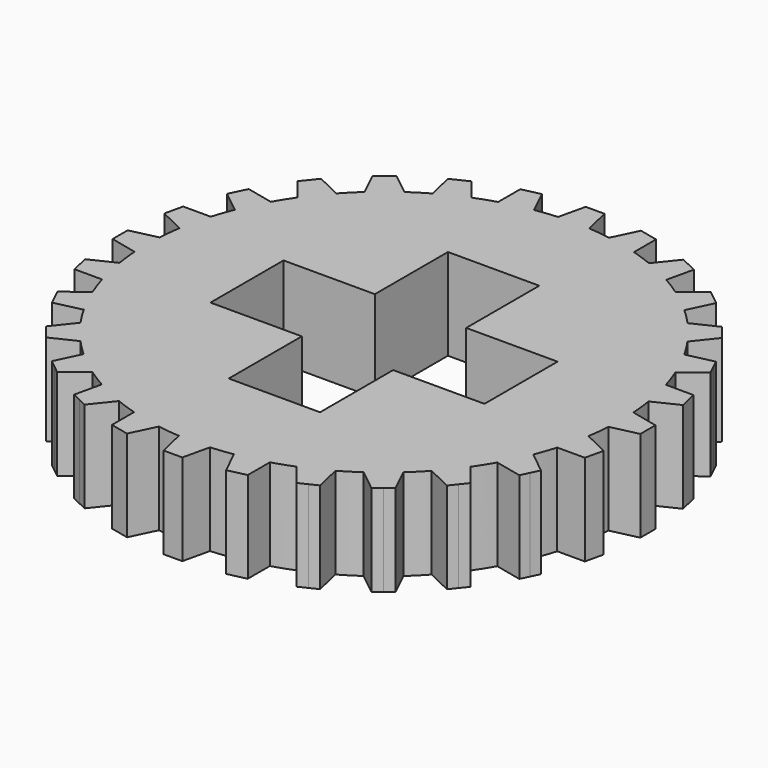
from build123d import *

# Parameters (mm, degrees)
F1_DEPTH = 20


with BuildPart() as f1:
    # F0 (on Top) → F1 (new body)
    with BuildSketch(Plane.XY):
        with BuildLine():
            ThreePointArc((51.887942, -3.411964), (51.971978, -1.706902), (52, 0))
            ThreePointArc((52, 0), (51.971978, 1.706902), (51.887942, 3.411964))
            ThreePointArc((51.887942, 3.411964), (51.673035, 5.822153), (51.346236, 8.219734))
            ThreePointArc((51.346236, 8.219734), (50.696251, 11.571089), (49.827769, 14.872573))
            ThreePointArc((49.827769, 14.872573), (49.081933, 17.174511), (48.229816, 19.43926))
            ThreePointArc((48.229816, 19.43926), (46.850381, 22.561954), (45.269024, 25.587408))
            ThreePointArc((45.269024, 25.587408), (44.029658, 27.665668), (42.694951, 29.684021))
            ThreePointArc((42.694951, 29.684021), (40.655237, 32.42147), (38.440301, 35.019184))
            ThreePointArc((38.440301, 35.019184), (36.769553, 36.769553), (35.019184, 38.440301))
            ThreePointArc((35.019184, 38.440301), (32.42147, 40.655237), (29.684021, 42.694951))
            ThreePointArc((29.684021, 42.694951), (27.665668, 44.029658), (25.587408, 45.269024))
            ThreePointArc((25.587408, 45.269024), (22.561954, 46.850381), (19.43926, 48.229816))
            ThreePointArc((19.43926, 48.229816), (17.174511, 49.081933), (14.872573, 49.827769))
            ThreePointArc((14.872573, 49.827769), (11.571089, 50.696251), (8.219734, 51.346236))
            ThreePointArc((8.219734, 51.346236), (5.822153, 51.673035), (3.411964, 51.887942))
            ThreePointArc((3.411964, 51.887942), (0, 52), (-3.411964, 51.887942))
            ThreePointArc((-3.411964, 51.887942), (-5.822153, 51.673035), (-8.219734, 51.346236))
            ThreePointArc((-8.219734, 51.346236), (-11.571089, 50.696251), (-14.872573, 49.827769))
            ThreePointArc((-14.872573, 49.827769), (-17.174511, 49.081933), (-19.43926, 48.229816))
            ThreePointArc((-19.43926, 48.229816), (-22.561954, 46.850381), (-25.587408, 45.269024))
            ThreePointArc((-25.587408, 45.269024), (-27.665668, 44.029658), (-29.684021, 42.694951))
            ThreePointArc((-29.684021, 42.694951), (-32.42147, 40.655237), (-35.019184, 38.440301))
            ThreePointArc((-35.019184, 38.440301), (-36.769553, 36.769553), (-38.440301, 35.019184))
            ThreePointArc((-38.440301, 35.019184), (-40.655237, 32.42147), (-42.694951, 29.684021))
            ThreePointArc((-42.694951, 29.684021), (-44.029658, 27.665668), (-45.269024, 25.587408))
            ThreePointArc((-45.269024, 25.587408), (-46.850381, 22.561954), (-48.229816, 19.43926))
            ThreePointArc((-48.229816, 19.43926), (-49.081933, 17.174511), (-49.827769, 14.872573))
            ThreePointArc((-49.827769, 14.872573), (-50.696251, 11.571089), (-51.346236, 8.219734))
            ThreePointArc((-51.346236, 8.219734), (-51.673035, 5.822153), (-51.887942, 3.411964))
            ThreePointArc((-51.887942, 3.411964), (-52, 0), (-51.887942, -3.411964))
            ThreePointArc((-51.887942, -3.411964), (-51.673035, -5.822153), (-51.346236, -8.219734))
            ThreePointArc((-51.346236, -8.219734), (-50.696251, -11.571089), (-49.827769, -14.872573))
            ThreePointArc((-49.827769, -14.872573), (-49.081933, -17.174511), (-48.229816, -19.43926))
            ThreePointArc((-48.229816, -19.43926), (-46.850381, -22.561954), (-45.269024, -25.587408))
            ThreePointArc((-45.269024, -25.587408), (-44.029658, -27.665668), (-42.694951, -29.684021))
            ThreePointArc((-42.694951, -29.684021), (-40.655237, -32.42147), (-38.440301, -35.019184))
            ThreePointArc((-38.440301, -35.019184), (-36.769553, -36.769553), (-35.019184, -38.440301))
            ThreePointArc((-35.019184, -38.440301), (-32.42147, -40.655237), (-29.684021, -42.694951))
            ThreePointArc((-29.684021, -42.694951), (-27.665668, -44.029658), (-25.587408, -45.269024))
            ThreePointArc((-25.587408, -45.269024), (-22.561954, -46.850381), (-19.43926, -48.229816))
            ThreePointArc((-19.43926, -48.229816), (-17.174511, -49.081933), (-14.872573, -49.827769))
            ThreePointArc((-14.872573, -49.827769), (-11.571089, -50.696251), (-8.219734, -51.346236))
            ThreePointArc((-8.219734, -51.346236), (-5.822153, -51.673035), (-3.411964, -51.887942))
            ThreePointArc((-3.411964, -51.887942), (0, -52), (3.411964, -51.887942))
            ThreePointArc((3.411964, -51.887942), (5.822153, -51.673035), (8.219734, -51.346236))
            ThreePointArc((8.219734, -51.346236), (11.571089, -50.696251), (14.872573, -49.827769))
            ThreePointArc((14.872573, -49.827769), (17.174511, -49.081933), (19.43926, -48.229816))
            ThreePointArc((19.43926, -48.229816), (22.561954, -46.850381), (25.587408, -45.269024))
            ThreePointArc((25.587408, -45.269024), (27.665668, -44.029658), (29.684021, -42.694951))
            ThreePointArc((29.684021, -42.694951), (32.42147, -40.655237), (35.019184, -38.440301))
            ThreePointArc((35.019184, -38.440301), (36.769553, -36.769553), (38.440301, -35.019184))
            ThreePointArc((38.440301, -35.019184), (40.655237, -32.42147), (42.694951, -29.684021))
            ThreePointArc((42.694951, -29.684021), (44.029658, -27.665668), (45.269024, -25.587408))
            ThreePointArc((45.269024, -25.587408), (46.850381, -22.561954), (48.229816, -19.43926))
            ThreePointArc((48.229816, -19.43926), (49.081933, -17.174511), (49.827769, -14.872573))
            ThreePointArc((49.827769, -14.872573), (50.696251, -11.571089), (51.346236, -8.219734))
            ThreePointArc((51.346236, -8.219734), (51.673035, -5.822153), (51.887942, -3.411964))
        make_face()
        Polygon((-10, 30), (0, 30), (10, 30), (10, 10), (30, 10), (30, 0), (30, -10), (10, -10), (10, -30), (0, -30), (-10, -30), (-10, -10), (-30, -10), (-30, 0), (-30, 10), (-10, 10), align=None, mode=Mode.SUBTRACT)
        with BuildLine():
            ThreePointArc((51.887942, 3.411964), (51.971978, 1.706902), (52, 0))
            ThreePointArc((52, 0), (51.971978, -1.706902), (51.887942, -3.411964))
            Line((51.887942, -3.411964), (57.775974, -2.059396))
            Line((57.775974, -2.059396), (57.775974, 0))
            Line((57.775974, 0), (57.775974, 2.059396))
            Line((57.775974, 2.059396), (51.887942, 3.411964))
        make_face()
        with BuildLine():
            ThreePointArc((49.827769, 14.872573), (50.696251, 11.571089), (51.346236, 8.219734))
            Line((51.346236, 8.219734), (56.785669, 10.848601))
            Line((56.785669, 10.848601), (56.32741, 12.856364))
            Line((56.32741, 12.856364), (55.869151, 14.864127))
            Line((55.869151, 14.864127), (49.827769, 14.872573))
        make_face()
        with BuildLine():
            Line((56.785669, -10.848601), (51.346236, -8.219734))
            ThreePointArc((51.346236, -8.219734), (50.696251, -11.571089), (49.827769, -14.872573))
            Line((49.827769, -14.872573), (55.869151, -14.864127))
            Line((55.869151, -14.864127), (56.32741, -12.856364))
            Line((56.32741, -12.856364), (56.785669, -10.848601))
        make_face()
        with BuildLine():
            ThreePointArc((45.269024, 25.587408), (46.850381, 22.561954), (48.229816, 19.43926))
            Line((48.229816, 19.43926), (52.947893, 23.212604))
            Line((52.947893, 23.212604), (52.054354, 25.068056))
            Line((52.054354, 25.068056), (51.160816, 26.923508))
            Line((51.160816, 26.923508), (45.269024, 25.587408))
        make_face()
        with BuildLine():
            Line((52.947893, -23.212604), (48.229816, -19.43926))
            ThreePointArc((48.229816, -19.43926), (46.850381, -22.561954), (45.269024, -25.587408))
            Line((45.269024, -25.587408), (51.160816, -26.923508))
            Line((51.160816, -26.923508), (52.054354, -25.068056))
            Line((52.054354, -25.068056), (52.947893, -23.212604))
        make_face()
        with BuildLine():
            ThreePointArc((38.440301, 35.019184), (40.655237, 32.42147), (42.694951, 29.684021))
            Line((42.694951, 29.684021), (46.455088, 34.41263))
            Line((46.455088, 34.41263), (45.171076, 36.022731))
            Line((45.171076, 36.022731), (43.887063, 37.632832))
            Line((43.887063, 37.632832), (38.440301, 35.019184))
        make_face()
        with BuildLine():
            Line((46.455088, -34.41263), (42.694951, -29.684021))
            ThreePointArc((42.694951, -29.684021), (40.655237, -32.42147), (38.440301, -35.019184))
            Line((38.440301, -35.019184), (43.887063, -37.632832))
            Line((43.887063, -37.632832), (45.171076, -36.022731))
            Line((45.171076, -36.022731), (46.455088, -34.41263))
        make_face()
        with BuildLine():
            ThreePointArc((29.684021, 42.694951), (32.42147, 40.655237), (35.019184, 38.440301))
            Line((35.019184, 38.440301), (37.632832, 43.887063))
            Line((37.632832, 43.887063), (36.022731, 45.171076))
            Line((36.022731, 45.171076), (34.41263, 46.455088))
            Line((34.41263, 46.455088), (29.684021, 42.694951))
        make_face()
        with BuildLine():
            Line((37.632832, -43.887063), (35.019184, -38.440301))
            ThreePointArc((35.019184, -38.440301), (32.42147, -40.655237), (29.684021, -42.694951))
            Line((29.684021, -42.694951), (34.41263, -46.455088))
            Line((34.41263, -46.455088), (36.022731, -45.171076))
            Line((36.022731, -45.171076), (37.632832, -43.887063))
        make_face()
        with BuildLine():
            ThreePointArc((19.43926, 48.229816), (22.561954, 46.850381), (25.587408, 45.269024))
            Line((25.587408, 45.269024), (26.923508, 51.160816))
            Line((26.923508, 51.160816), (25.068056, 52.054354))
            Line((25.068056, 52.054354), (23.212604, 52.947893))
            Line((23.212604, 52.947893), (19.43926, 48.229816))
        make_face()
        with BuildLine():
            Line((26.923508, -51.160816), (25.587408, -45.269024))
            ThreePointArc((25.587408, -45.269024), (22.561954, -46.850381), (19.43926, -48.229816))
            Line((19.43926, -48.229816), (23.212604, -52.947893))
            Line((23.212604, -52.947893), (25.068056, -52.054354))
            Line((25.068056, -52.054354), (26.923508, -51.160816))
        make_face()
        with BuildLine():
            ThreePointArc((8.219734, 51.346236), (11.571089, 50.696251), (14.872573, 49.827769))
            Line((14.872573, 49.827769), (14.864127, 55.869151))
            Line((14.864127, 55.869151), (12.856364, 56.32741))
            Line((12.856364, 56.32741), (10.848601, 56.785669))
            Line((10.848601, 56.785669), (8.219734, 51.346236))
        make_face()
        with BuildLine():
            Line((14.864127, -55.869151), (14.872573, -49.827769))
            ThreePointArc((14.872573, -49.827769), (11.571089, -50.696251), (8.219734, -51.346236))
            Line((8.219734, -51.346236), (10.848601, -56.785669))
            Line((10.848601, -56.785669), (12.856364, -56.32741))
            Line((12.856364, -56.32741), (14.864127, -55.869151))
        make_face()
        with BuildLine():
            ThreePointArc((-3.411964, 51.887942), (0, 52), (3.411964, 51.887942))
            Line((3.411964, 51.887942), (2.059396, 57.775974))
            Line((2.059396, 57.775974), (0, 57.775974))
            Line((0, 57.775974), (-2.059396, 57.775974))
            Line((-2.059396, 57.775974), (-3.411964, 51.887942))
        make_face()
        with BuildLine():
            Line((2.059396, -57.775974), (3.411964, -51.887942))
            ThreePointArc((3.411964, -51.887942), (0, -52), (-3.411964, -51.887942))
            Line((-3.411964, -51.887942), (-2.059396, -57.775974))
            Line((-2.059396, -57.775974), (0, -57.775974))
            Line((0, -57.775974), (2.059396, -57.775974))
        make_face()
        with BuildLine():
            ThreePointArc((-14.872573, 49.827769), (-11.571089, 50.696251), (-8.219734, 51.346236))
            Line((-8.219734, 51.346236), (-10.848601, 56.785669))
            Line((-10.848601, 56.785669), (-12.856364, 56.32741))
            Line((-12.856364, 56.32741), (-14.864127, 55.869151))
            Line((-14.864127, 55.869151), (-14.872573, 49.827769))
        make_face()
        with BuildLine():
            Line((-10.848601, -56.785669), (-8.219734, -51.346236))
            ThreePointArc((-8.219734, -51.346236), (-11.571089, -50.696251), (-14.872573, -49.827769))
            Line((-14.872573, -49.827769), (-14.864127, -55.869151))
            Line((-14.864127, -55.869151), (-12.856364, -56.32741))
            Line((-12.856364, -56.32741), (-10.848601, -56.785669))
        make_face()
        with BuildLine():
            ThreePointArc((-25.587408, 45.269024), (-22.561954, 46.850381), (-19.43926, 48.229816))
            Line((-19.43926, 48.229816), (-23.212604, 52.947893))
            Line((-23.212604, 52.947893), (-25.068056, 52.054354))
            Line((-25.068056, 52.054354), (-26.923508, 51.160816))
            Line((-26.923508, 51.160816), (-25.587408, 45.269024))
        make_face()
        with BuildLine():
            Line((-23.212604, -52.947893), (-19.43926, -48.229816))
            ThreePointArc((-19.43926, -48.229816), (-22.561954, -46.850381), (-25.587408, -45.269024))
            Line((-25.587408, -45.269024), (-26.923508, -51.160816))
            Line((-26.923508, -51.160816), (-25.068056, -52.054354))
            Line((-25.068056, -52.054354), (-23.212604, -52.947893))
        make_face()
        with BuildLine():
            ThreePointArc((-35.019184, 38.440301), (-32.42147, 40.655237), (-29.684021, 42.694951))
            Line((-29.684021, 42.694951), (-34.41263, 46.455088))
            Line((-34.41263, 46.455088), (-36.022731, 45.171076))
            Line((-36.022731, 45.171076), (-37.632832, 43.887063))
            Line((-37.632832, 43.887063), (-35.019184, 38.440301))
        make_face()
        with BuildLine():
            Line((-34.41263, -46.455088), (-29.684021, -42.694951))
            ThreePointArc((-29.684021, -42.694951), (-32.42147, -40.655237), (-35.019184, -38.440301))
            Line((-35.019184, -38.440301), (-37.632832, -43.887063))
            Line((-37.632832, -43.887063), (-36.022731, -45.171076))
            Line((-36.022731, -45.171076), (-34.41263, -46.455088))
        make_face()
        with BuildLine():
            ThreePointArc((-42.694951, 29.684021), (-40.655237, 32.42147), (-38.440301, 35.019184))
            Line((-38.440301, 35.019184), (-43.887063, 37.632832))
            Line((-43.887063, 37.632832), (-45.171076, 36.022731))
            Line((-45.171076, 36.022731), (-46.455088, 34.41263))
            Line((-46.455088, 34.41263), (-42.694951, 29.684021))
        make_face()
        with BuildLine():
            Line((-43.887063, -37.632832), (-38.440301, -35.019184))
            ThreePointArc((-38.440301, -35.019184), (-40.655237, -32.42147), (-42.694951, -29.684021))
            Line((-42.694951, -29.684021), (-46.455088, -34.41263))
            Line((-46.455088, -34.41263), (-45.171076, -36.022731))
            Line((-45.171076, -36.022731), (-43.887063, -37.632832))
        make_face()
        with BuildLine():
            ThreePointArc((-48.229816, 19.43926), (-46.850381, 22.561954), (-45.269024, 25.587408))
            Line((-45.269024, 25.587408), (-51.160816, 26.923508))
            Line((-51.160816, 26.923508), (-52.054354, 25.068056))
            Line((-52.054354, 25.068056), (-52.947893, 23.212604))
            Line((-52.947893, 23.212604), (-48.229816, 19.43926))
        make_face()
        with BuildLine():
            Line((-51.160816, -26.923508), (-45.269024, -25.587408))
            ThreePointArc((-45.269024, -25.587408), (-46.850381, -22.561954), (-48.229816, -19.43926))
            Line((-48.229816, -19.43926), (-52.947893, -23.212604))
            Line((-52.947893, -23.212604), (-52.054354, -25.068056))
            Line((-52.054354, -25.068056), (-51.160816, -26.923508))
        make_face()
        with BuildLine():
            ThreePointArc((-51.346236, 8.219734), (-50.696251, 11.571089), (-49.827769, 14.872573))
            Line((-49.827769, 14.872573), (-55.869151, 14.864127))
            Line((-55.869151, 14.864127), (-56.32741, 12.856364))
            Line((-56.32741, 12.856364), (-56.785669, 10.848601))
            Line((-56.785669, 10.848601), (-51.346236, 8.219734))
        make_face()
        with BuildLine():
            Line((-55.869151, -14.864127), (-49.827769, -14.872573))
            ThreePointArc((-49.827769, -14.872573), (-50.696251, -11.571089), (-51.346236, -8.219734))
            Line((-51.346236, -8.219734), (-56.785669, -10.848601))
            Line((-56.785669, -10.848601), (-56.32741, -12.856364))
            Line((-56.32741, -12.856364), (-55.869151, -14.864127))
        make_face()
        with BuildLine():
            ThreePointArc((-51.887942, -3.411964), (-52, 0), (-51.887942, 3.411964))
            Line((-51.887942, 3.411964), (-57.775974, 2.059396))
            Line((-57.775974, 2.059396), (-57.775974, 0))
            Line((-57.775974, 0), (-57.775974, -2.059396))
            Line((-57.775974, -2.059396), (-51.887942, -3.411964))
        make_face()
    extrude(amount=F1_DEPTH)


solid = f1.part
